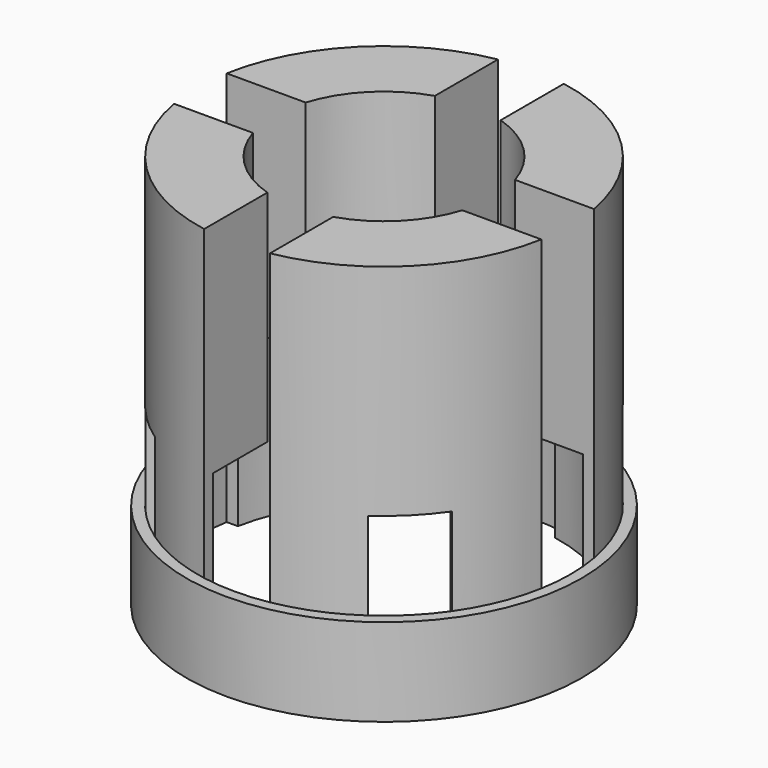
from build123d import *

# Parameters (mm, degrees)
SKETCH016_R     = 4.5
SKETCH016_R_2   = 2.5
PAD011_DEPTH    = 9
SKETCH018_R     = 5.465451
SKETCH018_R_2   = 4.25
POCKET006_DEPTH = 7
SKETCH019_R     = 4
POCKET007_DEPTH = 4
POCKET008_DEPTH = 9.001
POCKET009_DEPTH = 4


with BuildPart() as part:
    # Sketch016 → Pad011 (new body)
    with BuildSketch(Plane.XY):
        Circle(SKETCH016_R)
        Circle(SKETCH016_R_2, mode=Mode.SUBTRACT)
    extrude(amount=PAD011_DEPTH)

    # Sketch018 (on Face4 of Pad011) → Pocket006 (cut)
    with BuildSketch(Plane.XY.offset(9)):
        Circle(SKETCH018_R)
        Circle(SKETCH018_R_2, mode=Mode.SUBTRACT)
    extrude(amount=-POCKET006_DEPTH, mode=Mode.SUBTRACT)

    # Sketch019 (on Face2 of Pocket006) → Pocket007 (cut)
    with BuildSketch(Plane(origin=(0, 0, 0), x_dir=(1, 0, 0), z_dir=(0, 0, -1))):
        Circle(SKETCH019_R)
    extrude(amount=-POCKET007_DEPTH, mode=Mode.SUBTRACT)

    # Sketch020 (on Face2 of Pocket007) → Pocket008 (cut, through all)
    with BuildSketch(Plane(origin=(0, 0, 0), x_dir=(1, 0, 0), z_dir=(0, 0, -1))):
        with BuildLine():
            ThreePointArc((0.75, 4.1833001327), (0, 4.25), (-0.75, 4.1833001327))
            Line((-0.75, 0.75), (-0.75, 4.1833001327))
            Line((-4.1833001327, 0.75), (-0.75, 0.75))
            ThreePointArc((-4.1833001327, 0.75), (-4.25, 0), (-4.1833001327, -0.75))
            Line((-0.75, -0.75), (-4.1833001327, -0.75))
            Line((-0.75, -4.1833001327), (-0.75, -0.75))
            ThreePointArc((-0.75, -4.1833001327), (0, -4.25), (0.75, -4.1833001327))
            Line((0.75, -0.75), (0.75, -4.1833001327))
            Line((4.1833001327, -0.75), (0.75, -0.75))
            ThreePointArc((4.1833001327, -0.75), (4.25, 0), (4.1833001327, 0.75))
            Line((0.75, 0.75), (4.1833001327, 0.75))
            Line((0.75, 4.1833001327), (0.75, 0.75))
        make_face()
    extrude(amount=-POCKET008_DEPTH, mode=Mode.SUBTRACT)

    # Sketch021 (on Face2 of Pocket008) → Pocket009 (cut)
    with BuildSketch(Plane(origin=(0, 0, 0), x_dir=(0.7071067812, -0.7071067812, 0), z_dir=(0, 0, -1))):
        with BuildLine():
            ThreePointArc((0.75, 4.1833001327), (0, 4.25), (-0.75, 4.1833001327))
            Line((-0.75, 0.75), (-0.75, 4.1833001327))
            Line((-4.1833001327, 0.75), (-0.75, 0.75))
            ThreePointArc((-4.1833001327, 0.75), (-4.25, 0), (-4.1833001327, -0.75))
            Line((-0.75, -0.75), (-4.1833001327, -0.75))
            Line((-0.75, -4.1833001327), (-0.75, -0.75))
            ThreePointArc((-0.75, -4.1833001327), (0, -4.25), (0.75, -4.1833001327))
            Line((0.75, -0.75), (0.75, -4.1833001327))
            Line((4.1833001327, -0.75), (0.75, -0.75))
            ThreePointArc((4.1833001327, -0.75), (4.25, 0), (4.1833001327, 0.75))
            Line((0.75, 0.75), (4.1833001327, 0.75))
            Line((0.75, 4.1833001327), (0.75, 0.75))
        make_face()
    extrude(amount=-POCKET009_DEPTH, mode=Mode.SUBTRACT)


with BuildPart() as part_1:
    # Body006 placement: moved
    add(part.part.moved(Location((0, 0, -2.5))))


solid = part_1.part
